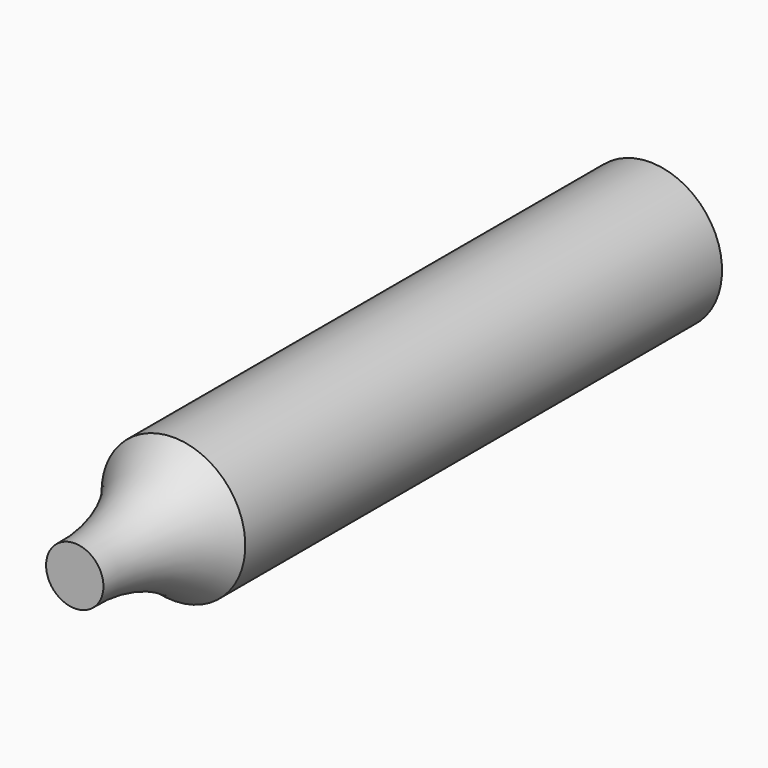
from build123d import *

# Parameters (mm, degrees)
F0_W     = 7
F0_H     = 24
F2_R     = 6.5
F3_DEPTH = 55.88


with BuildPart() as f1:
    # F0 (on Top) → F1 (revolve)
    with BuildSketch(Plane.XY):
        with Locations((3.5, -22)):
            Rectangle(F0_W, F0_H)
        with BuildLine():
            Line((7, -34), (0, -34))
            Line((0, -34), (0, -68))
            ThreePointArc((0, -68), (3.242526, -73.600747), (4.207879, -80))
            Line((4.207879, -80), (7, -80))
            Line((7, -80), (7, -34))
        make_face()
    revolve(axis=Axis((7, -22, 0), (0, -1, 0)))

    # F2 (on face) → F3 (cut)
    with BuildSketch(Plane(origin=(0, -10, 0), x_dir=(-1, 0, 0), z_dir=(0, 1, 0))):
        with Locations((-7, 0)):
            Circle(F2_R)
    extrude(amount=-F3_DEPTH, mode=Mode.SUBTRACT)


solid = f1.part
